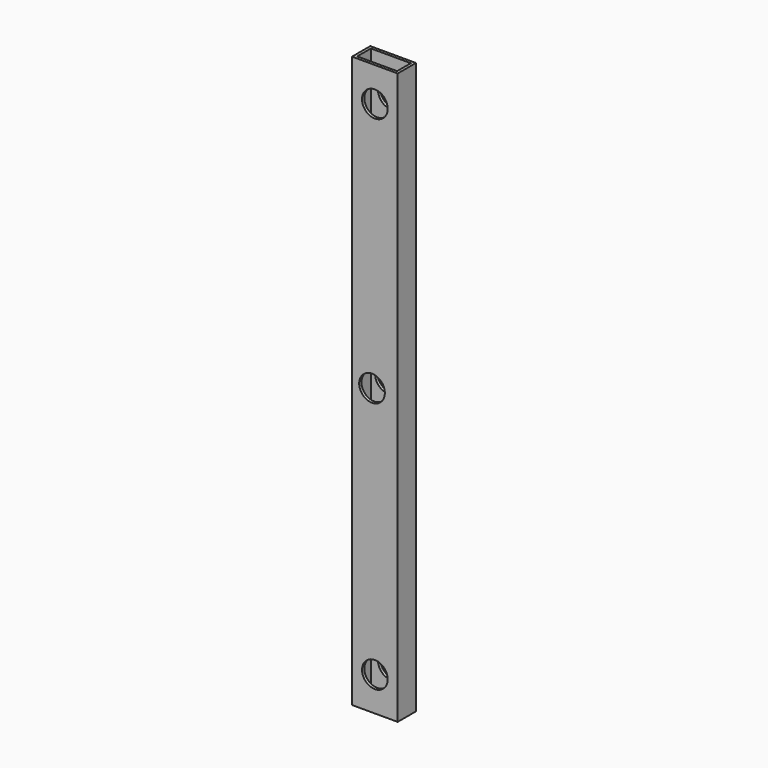
from build123d import *

# Parameters (mm, degrees)
F0_W     = 50.8
F0_H     = 25.4
F0_W_2   = 44.45
F0_H_2   = 19.05
F1_DEPTH = 635
F2_R     = 14.2875
F3_DEPTH = 25.401


with BuildPart() as f1:
    # F0 (on Top) → F1 (new body)
    with BuildSketch(Plane.XY):
        with Locations((25.4, 12.7)):
            Rectangle(F0_W, F0_H)
        with Locations((25.4, 12.7)):
            Rectangle(F0_W_2, F0_H_2, mode=Mode.SUBTRACT)
    extrude(amount=F1_DEPTH)

    # F2 (on face) → F3 (cut, through all)
    with BuildSketch(Plane(origin=(0, 25.4, 0), x_dir=(-1, 0, 0), z_dir=(0, 1, 0))):
        with Locations((-25.4, 596.88196)):
            Circle(F2_R)
        with Locations((-22.225, 317.5)):
            Circle(F2_R)
        with Locations((-25.4, 38.11804)):
            Circle(F2_R)
    extrude(amount=-F3_DEPTH, mode=Mode.SUBTRACT)


solid = f1.part
